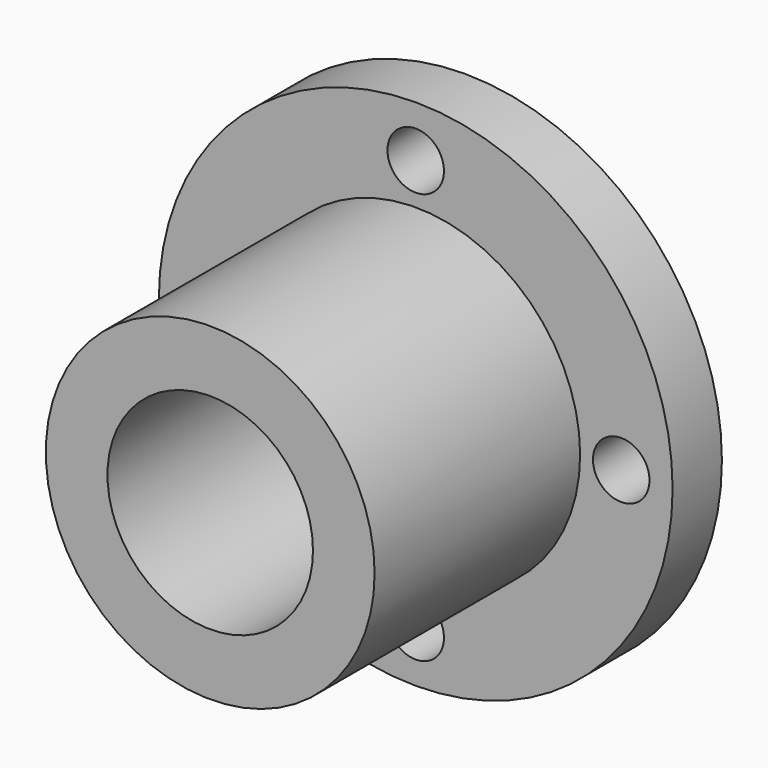
from build123d import *

# Parameters (mm, degrees)
F0_R     = 25
F1_DEPTH = 6
F2_R     = 16
F3_DEPTH = 25
F4_R     = 2.75
F5_DEPTH = 31.001
F7_D     = 20


with BuildPart() as f1:
    # F0 (on Front) → F1 (new body)
    with BuildSketch(Plane.XZ):
        Circle(F0_R)
    extrude(amount=F1_DEPTH)

    # F2 (on face) → F3 (join)
    with BuildSketch(Plane.XZ.offset(6)):
        Circle(F2_R)
    extrude(amount=F3_DEPTH)

    # F4 (on face) → F5 (cut, through all)
    with BuildSketch(Plane(origin=(0, 0, 0), x_dir=(-1, 0, 0), z_dir=(0, 1, 0))):
        with Locations((0, 20)):
            Circle(F4_R)
        with Locations((-20, 0)):
            Circle(F4_R)
        with Locations((20, 0)):
            Circle(F4_R)
        with Locations((0, -20)):
            Circle(F4_R)
    extrude(amount=-F5_DEPTH, mode=Mode.SUBTRACT)

    # F7 (through all)
    with Locations(Plane(origin=(0, 0, 0), x_dir=(-1, 0, 0), z_dir=(0, 1, 0))):
        with Locations((0, 0)):
            Hole(F7_D / 2)


solid = f1.part
